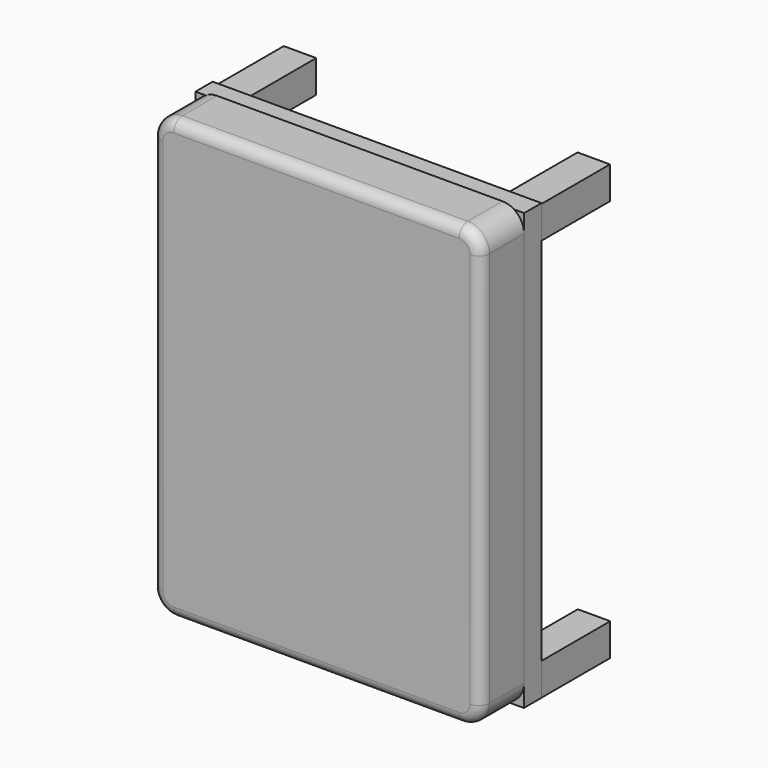
from build123d import *

# Parameters (mm, degrees)
SKETCH_W     = 1520
SKETCH_H     = 2030
PAD_DEPTH    = 250
FILLET_R     = 100
SKETCH002_W  = 150
SKETCH002_H  = 150
PAD002_DEPTH = 500
SKETCH003_W  = 150
SKETCH003_H  = 150
PAD003_DEPTH = 500
SKETCH004_W  = 150
SKETCH004_H  = 150
PAD004_DEPTH = 500
SKETCH005_W  = 150
SKETCH005_H  = 150
PAD005_DEPTH = 500
FILLET001_R  = 50
SKETCH001_W  = 1520.684692
SKETCH001_H  = 2014.4552
PAD001_DEPTH = 100


with BuildPart() as body:
    # Sketch → Pad (new body)
    with BuildSketch(Plane.XZ):
        with Locations((760, 1015)):
            Rectangle(SKETCH_W, SKETCH_H)
    extrude(amount=PAD_DEPTH)

    # Fillet
    fillet_edges = [body.edges().sort_by_distance(p)[0] for p in [
        (0, -125, 2030),
        (1520, -125, 0),
        (0, -125, 0),
        (1520, -125, 2030),
    ]]
    fillet(fillet_edges, radius=FILLET_R)

    # Sketch002 → Pad002 (join)
    with BuildSketch(Plane.XZ):
        with Locations((75, 75)):
            Rectangle(SKETCH002_W, SKETCH002_H)
    extrude(amount=-PAD002_DEPTH)

    # Sketch003 → Pad003 (join)
    with BuildSketch(Plane.XZ):
        with Locations((83.740668, 1924.513916)):
            Rectangle(SKETCH003_W, SKETCH003_H)
    extrude(amount=-PAD003_DEPTH)

    # Sketch004 → Pad004 (join)
    with BuildSketch(Plane.XZ):
        with Locations((1442.446899, 1933.484497)):
            Rectangle(SKETCH004_W, SKETCH004_H)
    extrude(amount=-PAD004_DEPTH)

    # Sketch005 → Pad005 (join)
    with BuildSketch(Plane.XZ):
        with Locations((1443.609009, 73.745581)):
            Rectangle(SKETCH005_W, SKETCH005_H)
    extrude(amount=-PAD005_DEPTH)

    # Fillet001
    fillet001_edges = [body.edges().sort_by_distance(p)[0] for p in [
        (0, -250, 1015),
        (29.289322, -250, 2000.710678),
        (760, -250, 2030),
        (1490.710678, -250, 2000.710678),
        (1520, -250, 1015),
        (1490.710678, -250, 29.289322),
        (760, -250, 0),
        (29.289322, -250, 29.289322),
    ]]
    fillet(fillet001_edges, radius=FILLET001_R)


with BuildPart() as body001:
    # Sketch001 → Pad001 (new body)
    with BuildSketch(Plane.XZ):
        with Locations((760.342346, 1007.2276)):
            Rectangle(SKETCH001_W, SKETCH001_H)
    extrude(amount=-PAD001_DEPTH)


solid = Compound([body.part, body001.part])
